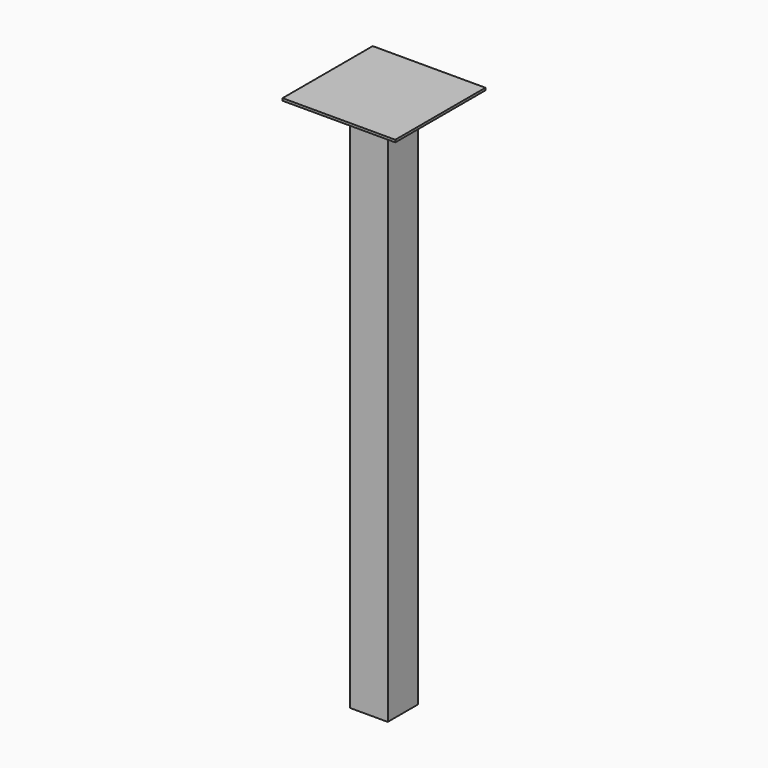
from build123d import *

# Parameters (mm, degrees)
F0_W     = 50.8
F0_H     = 50.8
F1_DEPTH = 727.075
F2_W     = 152.4
F2_H     = 152.4
F2_W_2   = 50.8
F2_H_2   = 50.8
F3_DEPTH = 3.175


with BuildPart() as f1:
    # F0 (on Top) → F1 (new body)
    with BuildSketch(Plane.XY):
        Rectangle(F0_W, F0_H)
    extrude(amount=F1_DEPTH)

    # F2 (on face) → F3 (join)
    with BuildSketch(Plane.XY.offset(727.075)):
        Rectangle(F2_W, F2_H)
        Rectangle(F2_W_2, F2_H_2, mode=Mode.SUBTRACT)
        Rectangle(F2_W_2, F2_H_2)
    extrude(amount=F3_DEPTH)


solid = f1.part
